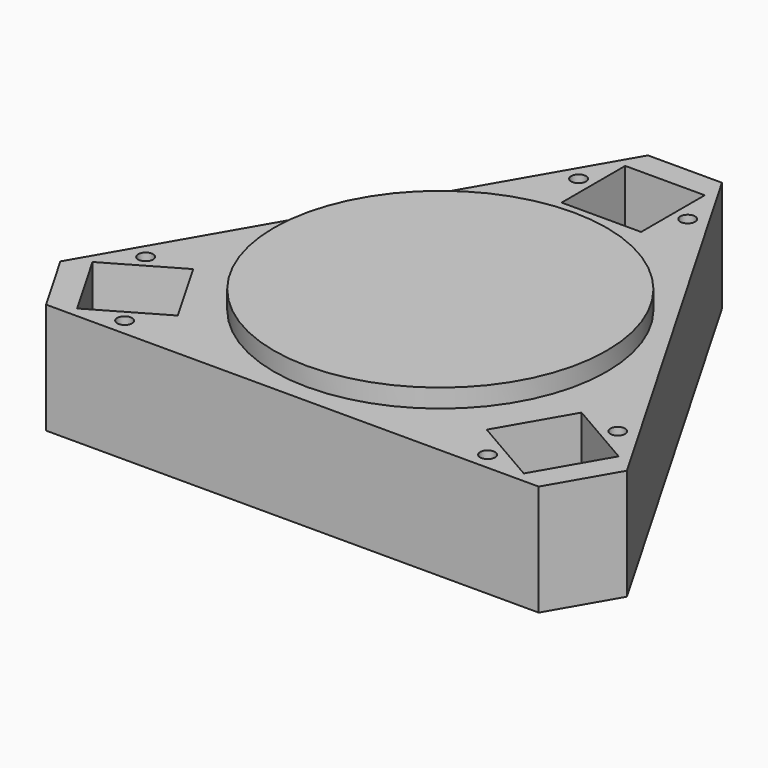
from build123d import *

# Parameters (mm, degrees)
F1_DEPTH = 60
F2_SIZE  = 40
F3_R     = 90
F4_DEPTH = 10
F5_W     = 43
F5_H     = 43
F6_DEPTH = 40
F7_R     = 4
F8_DEPTH = 10


with BuildPart() as f1:
    # F0 (on Top) → F1 (new body)
    with BuildSketch(Plane.XY):
        Polygon((-173.205081, -100), (173.205081, -100), (0, 200), align=None)
    extrude(amount=F1_DEPTH)

    # F2
    f2_edges = [f1.edges().sort_by_distance(p)[0] for p in [
        (-173.205081, -100, 30),
        (173.205081, -100, 30),
        (0, 200, 30),
    ]]
    chamfer(f2_edges, length=F2_SIZE)

    # F3 (on face) → F4 (join)
    with BuildSketch(Plane.XY.offset(60)):
        Circle(F3_R)
    extrude(amount=F4_DEPTH)

    # F5 (on face) → F6 (cut)
    with BuildSketch(Plane.XY.offset(60)):
        with Locations((0, 130.358984)):
            Rectangle(F5_W, F5_H)
        Polygon((-120.763738, -94.549038), (-83.524645, -73.049038), (-105.024645, -35.809946), (-142.263738, -57.309946), align=None)
        Polygon((142.263738, -57.309946), (105.024645, -35.809946), (83.524645, -73.049038), (120.763738, -94.549038), align=None)
    extrude(amount=-F6_DEPTH, mode=Mode.SUBTRACT)

    # F7 (on face) → F8 (cut)
    with BuildSketch(Plane.XY.offset(60)):
        with Locations((-29.5, 130.358984)):
            Circle(F7_R)
        with Locations((29.5, 130.358984)):
            Circle(F7_R)
        with Locations((-98.144192, -90.727241)):
            Circle(F7_R)
        with Locations((-127.644192, -39.631743)):
            Circle(F7_R)
        with Locations((127.644192, -39.631743)):
            Circle(F7_R)
        with Locations((98.144192, -90.727241)):
            Circle(F7_R)
    extrude(amount=-F8_DEPTH, mode=Mode.SUBTRACT)


solid = f1.part
